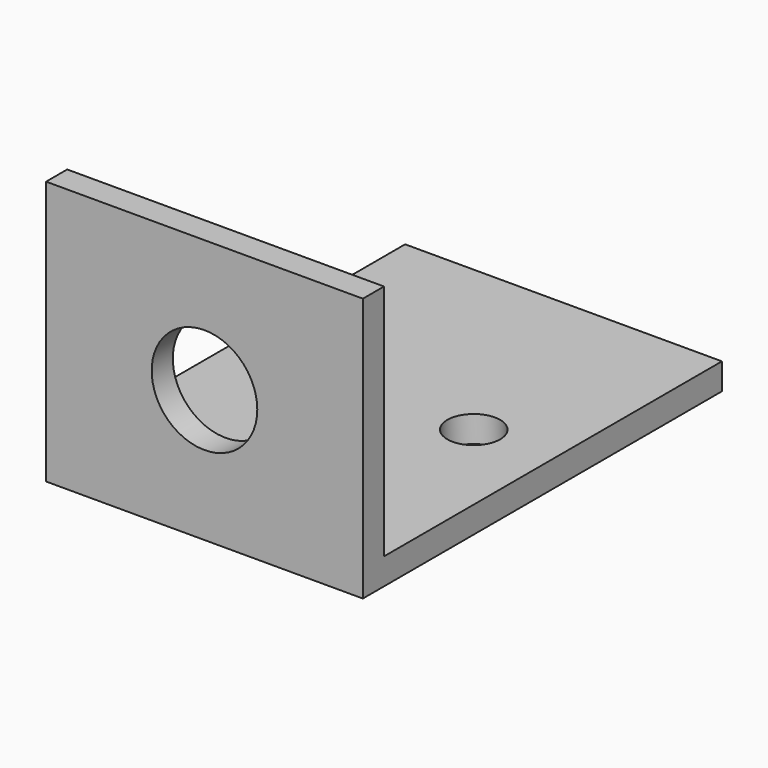
from build123d import *

# Parameters (mm, degrees)
F0_W     = 38.1
F0_H     = 31.75
F0_R     = 6.35
F1_DEPTH = 3.175
F2_W     = 38.1
F2_H     = 3.175
F3_DEPTH = 50.8
F4_R     = 3.175
F5_DEPTH = 3.176


with BuildPart() as f1:
    # F0 (on Front) → F1 (new body)
    with BuildSketch(Plane.XZ):
        with Locations((19.05, 15.875)):
            Rectangle(F0_W, F0_H)
        with Locations((19.05, 15.875)):
            Circle(F0_R, mode=Mode.SUBTRACT)
    extrude(amount=F1_DEPTH)

    # F2 (on face) → F3 (join)
    with BuildSketch(Plane(origin=(0, 0, 0), x_dir=(-1, 0, 0), z_dir=(0, 1, 0))):
        with Locations((-19.05, 1.5875)):
            Rectangle(F2_W, F2_H)
    extrude(amount=F3_DEPTH)

    # F4 (on face) → F5 (cut, through all)
    with BuildSketch(Plane.XY.offset(3.175)):
        with Locations((28.575, 25.4)):
            Circle(F4_R)
        with Locations((9.525, 25.4)):
            Circle(F4_R)
    extrude(amount=-F5_DEPTH, mode=Mode.SUBTRACT)


solid = f1.part
